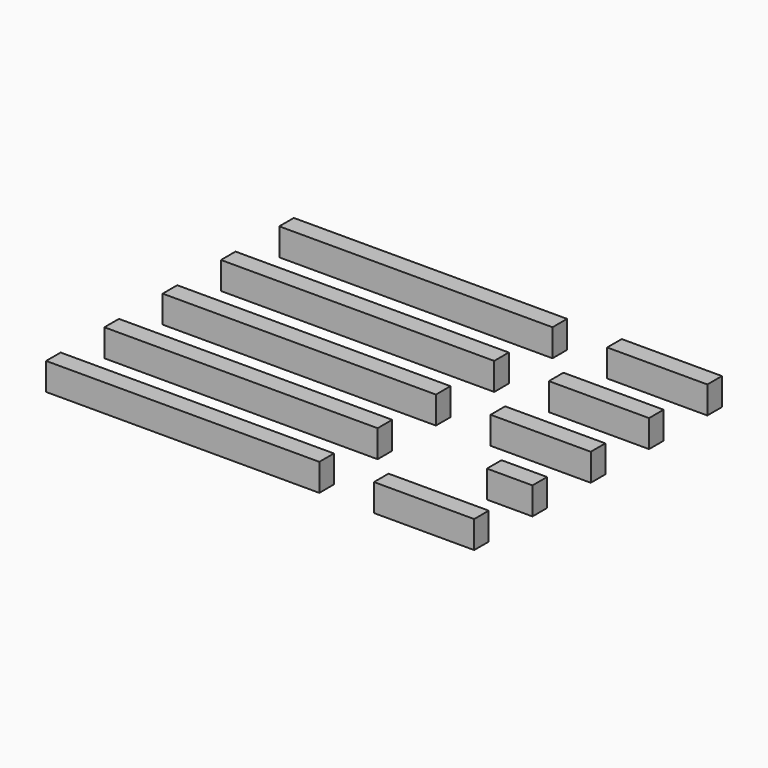
from build123d import *

# Parameters (mm, degrees)
BOX008_W     = 6
BOX008_H     = 14
BOX008_DEPTH = 3
BOX007_W     = 6
BOX007_H     = 42
BOX007_DEPTH = 3
BOX004_W     = 47
BOX004_H     = 2
BOX004_DEPTH = 3
BOX003_W     = 47
BOX003_H     = 2
BOX003_DEPTH = 3
BOX002_W     = 47
BOX002_H     = 2
BOX002_DEPTH = 3
BOX005_W     = 47
BOX005_H     = 2
BOX005_DEPTH = 3
BOX006_W     = 47
BOX006_H     = 2
BOX006_DEPTH = 3


with BuildPart() as cube008:
    # Box008 → Box008 (new body)
    with BuildSketch(Plane(origin=(12.5, -15, -3), x_dir=(1, 0, 0), z_dir=(0, 0, 1))):
        with Locations((3, 7)):
            Rectangle(BOX008_W, BOX008_H)
    extrude(amount=BOX008_DEPTH)


with BuildPart() as fusion001:
    # Box007 → Box007 (new body)
    with BuildSketch(Plane(origin=(6.5, -21, -3), x_dir=(1, 0, 0), z_dir=(0, 0, 1))):
        with Locations((3, 21)):
            Rectangle(BOX007_W, BOX007_H)
    extrude(amount=BOX007_DEPTH)

    # Fusion001: union Cube008
    add(cube008.part)


with BuildPart() as cube004:
    # Box004 → Box004 (new body)
    with BuildSketch(Plane(origin=(-23.5, -1, -3), x_dir=(1, 0, 0), z_dir=(0, 0, 1))):
        with Locations((23.5, 1)):
            Rectangle(BOX004_W, BOX004_H)
    extrude(amount=BOX004_DEPTH)


with BuildPart() as cube003:
    # Box003 → Box003 (new body)
    with BuildSketch(Plane(origin=(-23.5, -9, -3), x_dir=(1, 0, 0), z_dir=(0, 0, 1))):
        with Locations((23.5, 1)):
            Rectangle(BOX003_W, BOX003_H)
    extrude(amount=BOX003_DEPTH)


with BuildPart() as cube002:
    # Box002 → Box002 (new body)
    with BuildSketch(Plane(origin=(-23.5, -17, -3), x_dir=(1, 0, 0), z_dir=(0, 0, 1))):
        with Locations((23.5, 1)):
            Rectangle(BOX002_W, BOX002_H)
    extrude(amount=BOX002_DEPTH)


with BuildPart() as cube005:
    # Box005 → Box005 (new body)
    with BuildSketch(Plane(origin=(-23.5, 7, -3), x_dir=(1, 0, 0), z_dir=(0, 0, 1))):
        with Locations((23.5, 1)):
            Rectangle(BOX005_W, BOX005_H)
    extrude(amount=BOX005_DEPTH)


with BuildPart() as espaciador:
    # Box006 → Box006 (new body)
    with BuildSketch(Plane(origin=(-23.5, 15, -3), x_dir=(1, 0, 0), z_dir=(0, 0, 1))):
        with Locations((23.5, 1)):
            Rectangle(BOX006_W, BOX006_H)
    extrude(amount=BOX006_DEPTH)

    # Fusion: union Cube004, Cube003, Cube002, Cube005
    add(cube004.part)
    add(cube003.part)
    add(cube002.part)
    add(cube005.part)

    # Cut002: cut Fusion001
    add(fusion001.part, mode=Mode.SUBTRACT)


solid = espaciador.part
